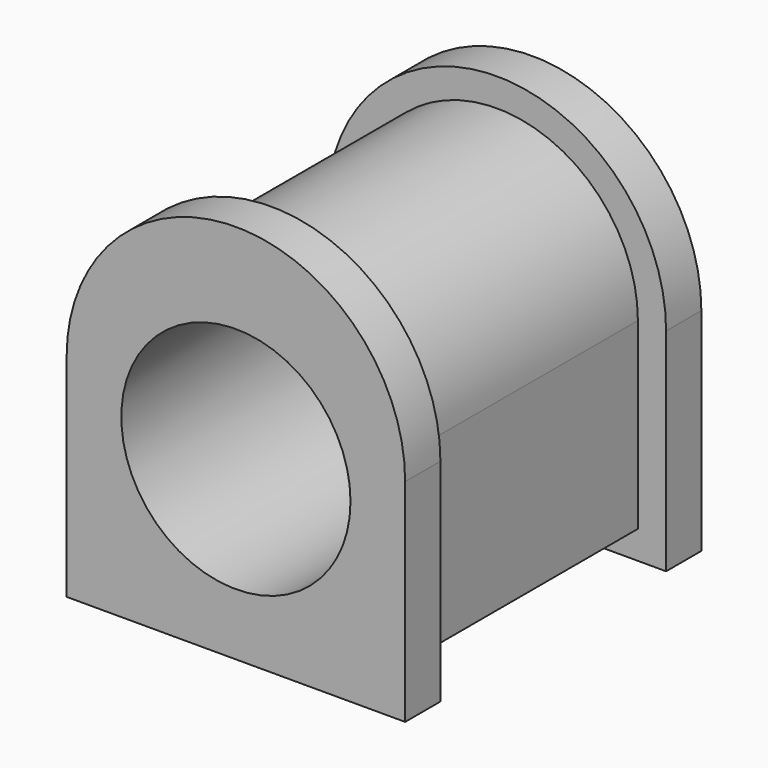
from build123d import *

# Parameters (mm, degrees)
F2_DEPTH = 12.5
F4_DEPTH = 40
F6_R     = 32.5
F7_DEPTH = 105.001


with BuildPart() as f2:
    # F1 (on offset) → F2 (new body)
    with BuildSketch(Plane.XZ.offset(40)):
        with BuildLine():
            Line((48, 0), (48, 60))
            ThreePointArc((48, 60), (0, 108), (-48, 60))
            Line((-48, 60), (-48, 0))
            Line((-48, 0), (48, 0))
        make_face()
    extrude(amount=F2_DEPTH)

    # F3 (on face) → F4 (join, through all)
    with BuildSketch(Plane(origin=(0, -40, 0), x_dir=(-1, 0, 0), z_dir=(0, 1, 0))):
        with BuildLine():
            ThreePointArc((40, 60), (0, 100), (-40, 60))
            Line((-40, 60), (-40, 8))
            Line((-40, 8), (40, 8))
            Line((40, 8), (40, 60))
        make_face()
    extrude(amount=F4_DEPTH)

    # F5: F2 across plane


with BuildPart() as f2_1:
    add(f2.part)
    add(f2.part.mirror(Plane.XZ))

    # F6 (on face) → F7 (cut, through all)
    with BuildSketch(Plane.XZ.offset(52.5)):
        with Locations((0, 50)):
            Circle(F6_R)
    extrude(amount=-F7_DEPTH, mode=Mode.SUBTRACT)


solid = f2_1.part
